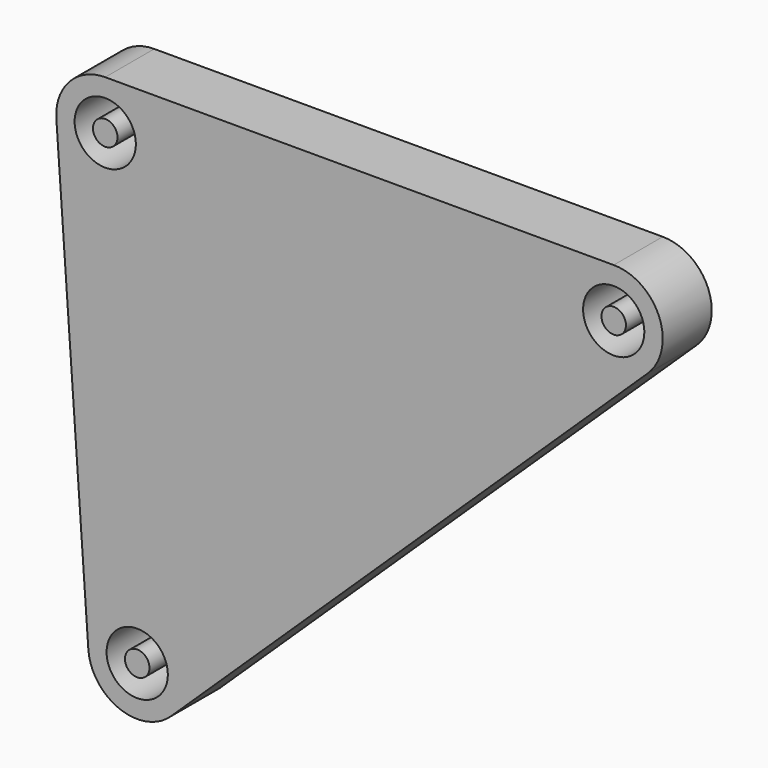
from build123d import *

# Parameters (mm, degrees)
F0_R     = 2.5
F0_R_2   = 1
F1_DEPTH = 5


with BuildPart() as f1:
    # F0 (on Front) → F1 (new body)
    with BuildSketch(Plane.XZ):
        with BuildLine():
            Line((-19.700228, 2.460566), (-17.090228, -34.809434))
            ThreePointArc((-17.090228, -34.809434), (-14.540401, -38.261655), (-10.332362, -37.417937))
            Line((-10.332362, -37.417937), (28.557638, -0.147937))
            ThreePointArc((28.557638, -0.147937), (29.501587, 4.23135), (25.79, 6.74))
            Line((25.79, 6.74), (-15.71, 6.74))
            ThreePointArc((-15.71, 6.74), (-18.635554, 5.467844), (-19.700228, 2.460566))
        make_face()
        with Locations((-13.1, -34.53)):
            Circle(F0_R, mode=Mode.SUBTRACT)
        with Locations((-15.71, 2.74)):
            Circle(F0_R, mode=Mode.SUBTRACT)
        with Locations((25.79, 2.74)):
            Circle(F0_R, mode=Mode.SUBTRACT)
        with Locations((-15.71, 2.74)):
            Circle(F0_R_2)
        with Locations((25.79, 2.74)):
            Circle(F0_R_2)
        with Locations((-13.1, -34.53)):
            Circle(F0_R_2)
    extrude(amount=F1_DEPTH)


solid = f1.part
